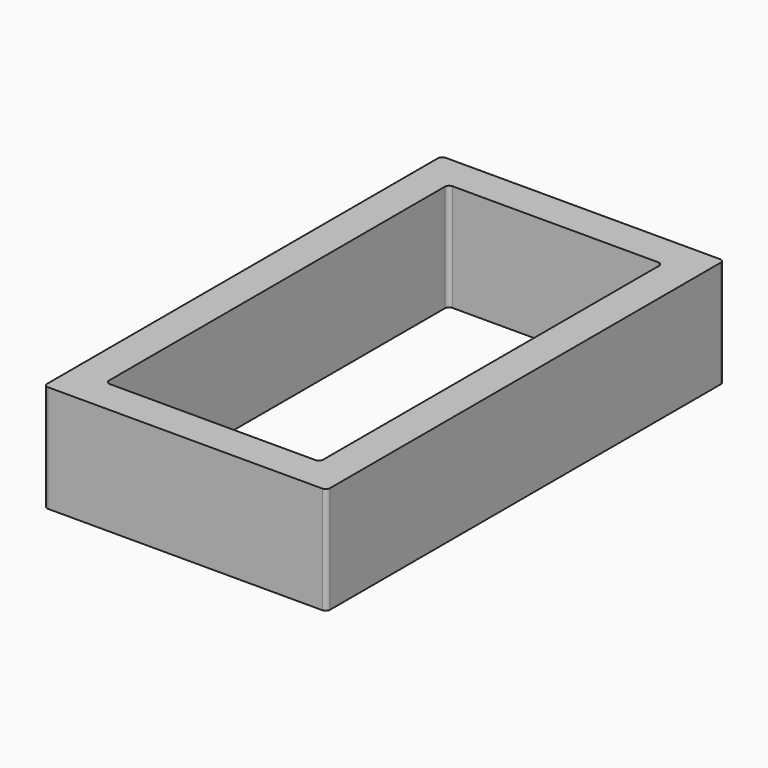
from build123d import *

# Parameters (mm, degrees)
F0_W     = 16.764
F0_H     = 29.464
F0_W_2   = 12.7
F0_H_2   = 25.4
F1_DEPTH = 6.35
F2_R     = 0.254


with BuildPart() as f1:
    # F0 (on Top) → F1 (new body)
    with BuildSketch(Plane.XY):
        with Locations((6.35, 12.7)):
            Rectangle(F0_W, F0_H)
        with Locations((6.35, 12.7)):
            Rectangle(F0_W_2, F0_H_2, mode=Mode.SUBTRACT)
    extrude(amount=F1_DEPTH)

    # F2
    f2_edges = [f1.edges().sort_by_distance(p)[0] for p in [
        (14.732, -2.032, 3.175),
        (-2.032, -2.032, 3.175),
        (14.732, 27.432, 3.175),
        (-2.032, 27.432, 3.175),
        (12.7, 0, 3.175),
        (12.7, 25.4, 3.175),
        (0, 25.4, 3.175),
        (0, 0, 3.175),
    ]]
    fillet(f2_edges, radius=F2_R)


solid = f1.part
